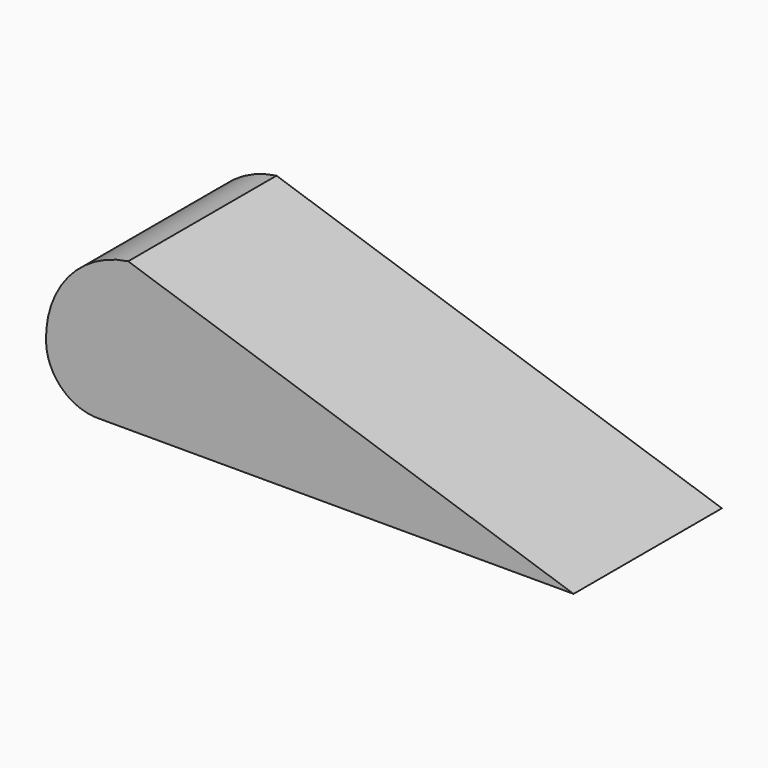
from build123d import *

# Parameters (mm, degrees)
F2_DEPTH = 25.4


with BuildPart() as f2:
    # F1 (on face) → F2 (new body)
    with BuildSketch(Plane.XZ):
        with BuildLine():
            ThreePointArc((-24.083495, 6.159462), (-32.298538, 1.588263), (-35.324365, -7.312701))
            ThreePointArc((-35.324365, -7.312701), (-33.066916, -12.219169), (-28.006747, -14.107078))
            Line((-28.006747, -14.107078), (36.927342, -14.107078))
            Line((36.927342, -14.107078), (-24.083495, 6.159462))
        make_face()
    extrude(amount=F2_DEPTH)


solid = f2.part
